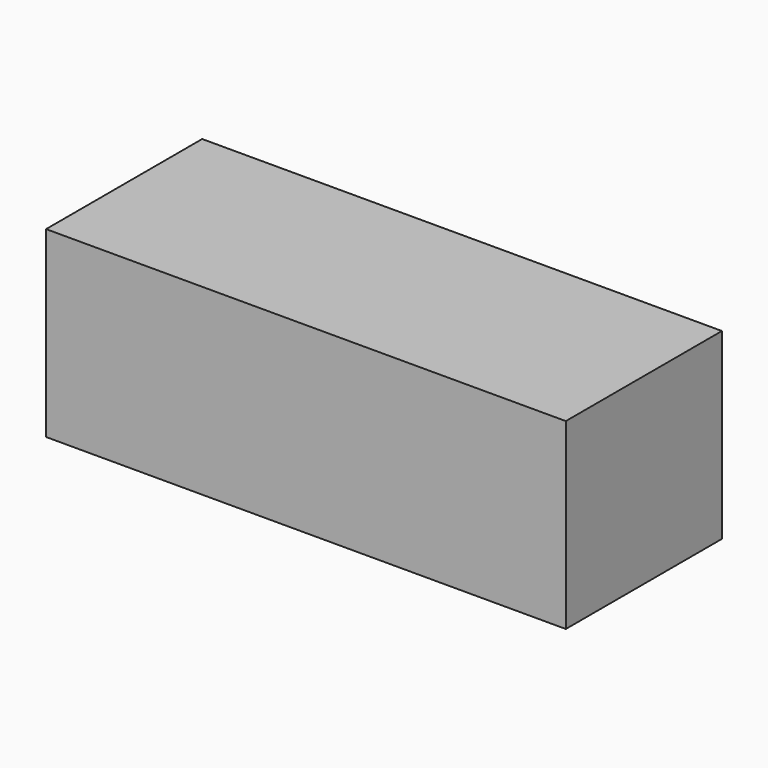
from build123d import *

# Parameters (mm, degrees)
F0_W      = 135.308668
F0_H      = 47.65166
F1_DEPTH  = 25.4
F1_FACE_W = 135.308668
F1_FACE_H = 47.65166
F2_DEPTH  = 25.4


with BuildPart() as f1:
    # F0 (on Front) → F1 (new body)
    with BuildSketch(Plane.XZ):
        Rectangle(F0_W, F0_H)
    extrude(amount=F1_DEPTH)

    # F1_face (on face) → F2 (join)
    with BuildSketch(Plane.XZ.offset(25.4)):
        Rectangle(F1_FACE_W, F1_FACE_H)
    extrude(amount=F2_DEPTH)


solid = f1.part
